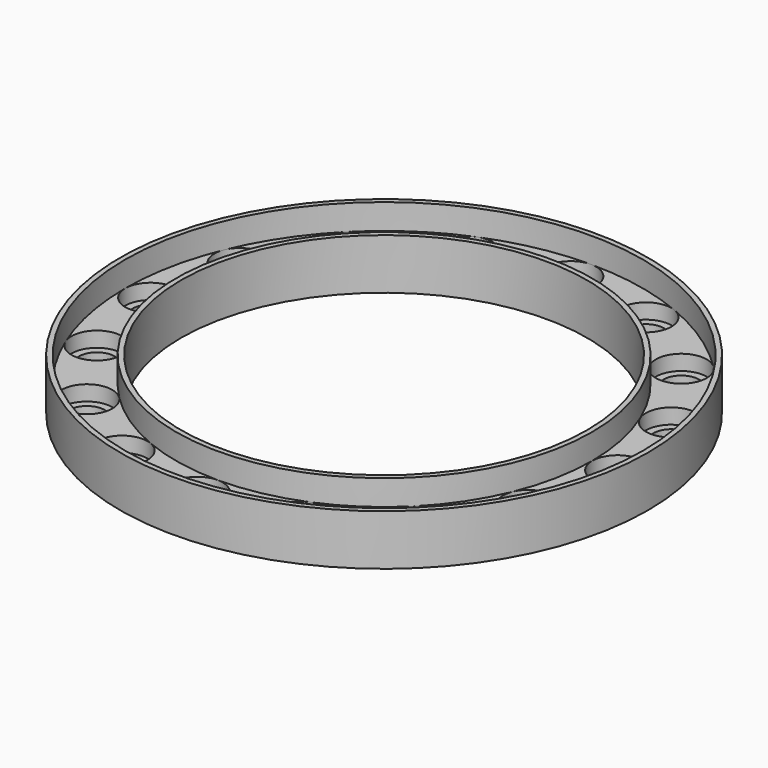
from build123d import *

# Parameters (mm, degrees)
F0_R     = 26
F0_R_2   = 20
F1_DEPTH = 5
F2_R     = 25.5
F2_R_2   = 20.5
F3_DEPTH = 2.5
F4_R     = 2.5
F5_DEPTH = 1.5
F6_R     = 1.75
F7_DEPTH = 2.501


with BuildPart() as f1:
    # F0 (on Top) → F1 (new body)
    with BuildSketch(Plane.XY):
        Circle(F0_R)
        Circle(F0_R_2, mode=Mode.SUBTRACT)
    extrude(amount=F1_DEPTH)

    # F2 (on face) → F3 (cut)
    with BuildSketch(Plane.XY.offset(5)):
        Circle(F2_R)
        Circle(F2_R_2, mode=Mode.SUBTRACT)
    extrude(amount=-F3_DEPTH, mode=Mode.SUBTRACT)

    # F4 (on face) → F5 (cut)
    with BuildSketch(Plane.XY.offset(2.5)):
        with Locations((23, 0)):
            Circle(F4_R)
        with Locations((21.249229, -8.801719)):
            Circle(F4_R)
        with Locations((16.263456, -16.263456)):
            Circle(F4_R)
        with Locations((8.801719, -21.249229)):
            Circle(F4_R)
        with Locations((0, -23)):
            Circle(F4_R)
        with Locations((-8.801719, -21.249229)):
            Circle(F4_R)
        with Locations((-16.263456, -16.263456)):
            Circle(F4_R)
        with Locations((-21.249229, -8.801719)):
            Circle(F4_R)
        with Locations((-23, 0)):
            Circle(F4_R)
        with Locations((-21.249229, 8.801719)):
            Circle(F4_R)
        with Locations((-16.263456, 16.263456)):
            Circle(F4_R)
        with Locations((-8.801719, 21.249229)):
            Circle(F4_R)
        with Locations((0, 23)):
            Circle(F4_R)
        with Locations((8.801719, 21.249229)):
            Circle(F4_R)
        with Locations((16.263456, 16.263456)):
            Circle(F4_R)
        with Locations((21.249229, 8.801719)):
            Circle(F4_R)
    extrude(amount=-F5_DEPTH, mode=Mode.SUBTRACT)

    # F6 (on face) → F7 (cut, through all)
    with BuildSketch(Plane.XY.offset(2.5)):
        with Locations((23, 0)):
            Circle(F6_R)
        with Locations((21.249229, 8.801719)):
            Circle(F6_R)
        with Locations((16.263456, 16.263456)):
            Circle(F6_R)
        with Locations((8.801719, 21.249229)):
            Circle(F6_R)
        with Locations((0, 23)):
            Circle(F6_R)
        with Locations((-8.801719, 21.249229)):
            Circle(F6_R)
        with Locations((-16.263456, 16.263456)):
            Circle(F6_R)
        with Locations((-21.249229, 8.801719)):
            Circle(F6_R)
        with Locations((-23, 0)):
            Circle(F6_R)
        with Locations((-21.249229, -8.801719)):
            Circle(F6_R)
        with Locations((-16.263456, -16.263456)):
            Circle(F6_R)
        with Locations((-8.801719, -21.249229)):
            Circle(F6_R)
        with Locations((0, -23)):
            Circle(F6_R)
        with Locations((8.801719, -21.249229)):
            Circle(F6_R)
        with Locations((16.263456, -16.263456)):
            Circle(F6_R)
        with Locations((21.249229, -8.801719)):
            Circle(F6_R)
    extrude(amount=-F7_DEPTH, mode=Mode.SUBTRACT)


solid = f1.part
